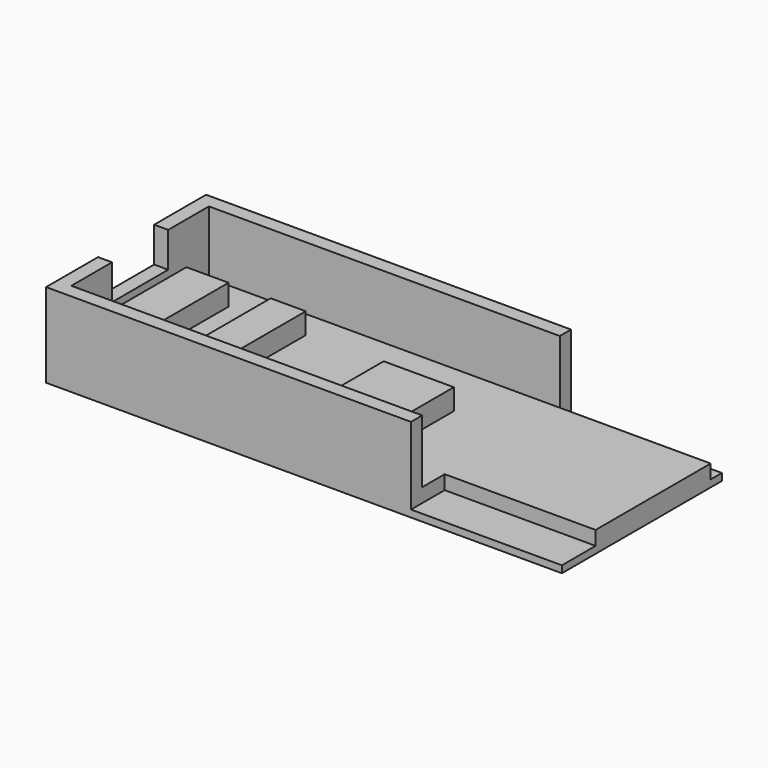
from build123d import *

# Parameters (mm, degrees)
F0_W     = 19
F0_H     = 20.5
F0_W_2   = 5
F0_H_2   = 16.5
F0_W_3   = 10
F0_H_3   = 8.5
F0_W_4   = 2.5
F1_DEPTH = 3
F2_DEPTH = 6
F0_W_5   = 2
F0_H_4   = 10
F3_DEPTH = 7
F0_W_6   = 50
F0_H_5   = 2
F4_DEPTH = 12
F5_DEPTH = 1


with BuildPart() as f1:
    # F0 (on Top) → F1 (new body)
    with BuildSketch(Plane.XY):
        with Locations((61.5, 16.25)):
            Rectangle(F0_W, F0_H)
        Polygon((2, 6), (2, 2), (52, 2), (52, 6), (52, 26.5), (2, 26.5), (2, 22.5), (8, 22.5), (8, 6), align=None)
        with Locations((16.5, 14.25)):
            Rectangle(F0_W_2, F0_H_2, mode=Mode.SUBTRACT)
        with Locations((38.3, 14.25)):
            Rectangle(F0_W_3, F0_H_3, mode=Mode.SUBTRACT)
        with Locations((72.25, 16.25)):
            Rectangle(F0_W_4, F0_H)
    extrude(amount=F1_DEPTH)

    # F0 (on Top) → F2 (join)
    with BuildSketch(Plane.XY):
        Polygon((2, 19.25), (2, 9.25), (2, 6), (8, 6), (8, 22.5), (2, 22.5), align=None)
        with Locations((16.5, 14.25)):
            Rectangle(F0_W_2, F0_H_2)
        with Locations((38.3, 14.25)):
            Rectangle(F0_W_3, F0_H_3)
    extrude(amount=F2_DEPTH)

    # F0 (on Top) → F3 (join)
    with BuildSketch(Plane.XY):
        with Locations((1, 14.25)):
            Rectangle(F0_W_5, F0_H_4)
    extrude(amount=F3_DEPTH)

    # F0 (on Top) → F4 (join)
    with BuildSketch(Plane.XY):
        with Locations((27, 27.5)):
            Rectangle(F0_W_6, F0_H_5)
        Polygon((0, 28.5), (0, 19.25), (2, 19.25), (2, 22.5), (2, 26.5), (2, 28.5), align=None)
        Polygon((0, 9.25), (0, 0), (2, 0), (2, 2), (2, 6), (2, 9.25), align=None)
        with Locations((27, 1)):
            Rectangle(F0_W_6, F0_H_5)
    extrude(amount=F4_DEPTH)

    # F0 (on Top) → F5 (join)
    with BuildSketch(Plane.XY):
        Polygon((52, 28.5), (52, 26.5), (71, 26.5), (73.5, 26.5), (73.5, 28.5), align=None)
        Polygon((52, 2), (52, 0), (73.5, 0), (73.5, 6), (71, 6), (52, 6), align=None)
    extrude(amount=F5_DEPTH)


solid = f1.part
